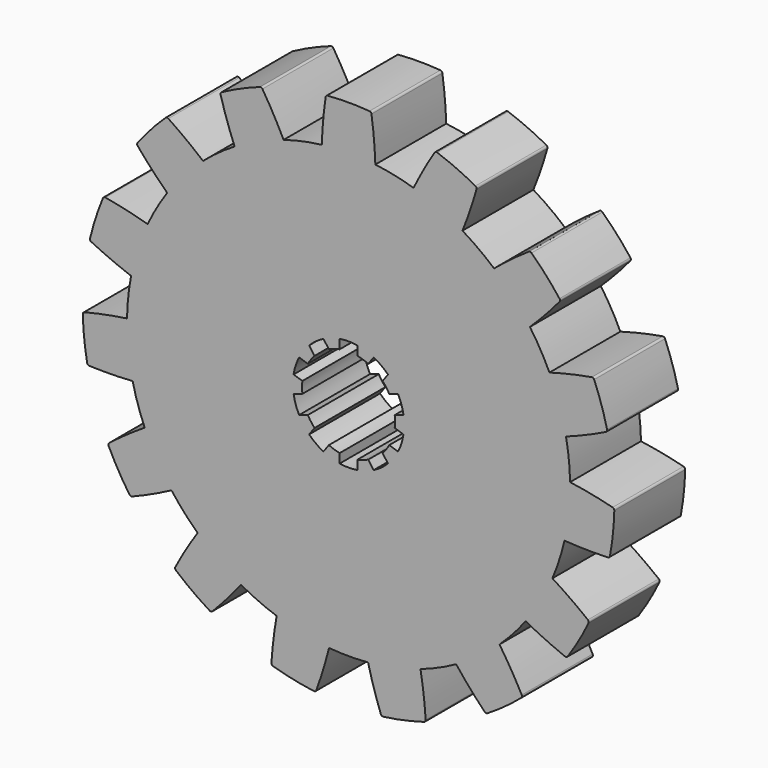
from build123d import *

# Parameters (mm, degrees)
F1_DEPTH = 20
F2_R     = 0.5


with BuildPart() as f1:
    # F0 (on Front) → F1 (new body)
    with BuildSketch(Plane.XZ):
        with BuildLine():
            ThreePointArc((-49.215093, -34.320178), (-44.527523, -32.31723), (-39.960872, -30.0521))
            ThreePointArc((-39.960872, -30.0521), (-43.30127, -25), (-46.006318, -19.581081))
            ThreePointArc((-46.006318, -19.581081), (-50.251304, -22.403351), (-54.329692, -25.461432))
            ThreePointArc((-54.329692, -25.461432), (-51.961524, -30), (-49.215093, -34.320178))
        make_face()
        with BuildLine():
            ThreePointArc((-7.426463, -59.538623), (-5.778346, -54.714846), (-4.40598, -49.805495))
            ThreePointArc((-4.40598, -49.805495), (-10.395585, -48.90738), (-16.232657, -47.291657))
            ThreePointArc((-16.232657, -47.291657), (-16.975751, -52.334764), (-17.432128, -57.411853))
            ThreePointArc((-17.432128, -57.411853), (-12.474701, -58.688856), (-7.426463, -59.538623))
        make_face()
        with BuildLine():
            ThreePointArc((-40.929834, 28.718438), (-37.157241, 33.45653), (-32.839448, 37.703722))
            ThreePointArc((-32.839448, 37.703722), (-36.83536, 40.868814), (-41.004059, 43.802593))
            ThreePointArc((-41.004059, 43.802593), (-44.58869, 40.147836), (-47.848729, 36.200817))
            ThreePointArc((-47.848729, 36.200817), (-44.495273, 32.361618), (-40.929834, 28.718438))
        make_face()
        with BuildLine():
            ThreePointArc((-49.072105, 9.587936), (-47.552826, 15.45085), (-45.335814, 21.087057))
            ThreePointArc((-45.335814, 21.087057), (-50.27362, 22.353228), (-55.275192, 23.337806))
            ThreePointArc((-55.275192, 23.337806), (-57.063391, 18.54102), (-58.436188, 13.609261))
            ThreePointArc((-58.436188, 13.609261), (-53.811111, 11.465951), (-49.072105, 9.587936))
        make_face()
        with BuildLine():
            ThreePointArc((-58.919499, -11.335461), (-53.822518, -11.412283), (-48.729363, -11.200408))
            ThreePointArc((-48.729363, -11.200408), (-49.726095, -5.226423), (-49.993206, 0.824248))
            ThreePointArc((-49.993206, 0.824248), (-55.019114, -0.027433), (-59.988741, -1.162299))
            ThreePointArc((-59.988741, -1.162299), (-59.671314, -6.271708), (-58.919499, -11.335461))
        make_face()
        with BuildLine():
            ThreePointArc((-31.000951, -51.370624), (-27.533315, -47.634234), (-24.282783, -43.70751))
            ThreePointArc((-24.282783, -43.70751), (-29.389263, -40.45085), (-34.06452, -36.600663))
            ThreePointArc((-34.06452, -36.600663), (-36.794586, -40.905526), (-39.276546, -45.358052))
            ThreePointArc((-39.276546, -45.358052), (-35.267115, -48.54102), (-31.000951, -51.370624))
        make_face()
        with BuildLine():
            ThreePointArc((48.729363, -11.200408), (49.681325, -5.636126), (50, 0))
            ThreePointArc((50, 0), (49.998301, 0.412138), (49.993206, 0.824248))
            ThreePointArc((49.993206, 0.824248), (49.726095, 5.226423), (49.072105, 9.587936))
            ThreePointArc((49.072105, 9.587936), (47.552826, 15.45085), (45.335814, 21.087057))
            ThreePointArc((45.335814, 21.087057), (43.30127, 25), (40.929834, 28.718438))
            ThreePointArc((40.929834, 28.718438), (37.157241, 33.45653), (32.839448, 37.703722))
            ThreePointArc((32.839448, 37.703722), (29.389263, 40.45085), (25.710422, 42.883262))
            ThreePointArc((25.710422, 42.883262), (20.336832, 45.677273), (14.664844, 47.801071))
            ThreePointArc((14.664844, 47.801071), (10.395585, 48.90738), (6.045446, 49.63318))
            ThreePointArc((6.045446, 49.63318), (0, 50), (-6.045446, 49.63318))
            ThreePointArc((-6.045446, 49.63318), (-10.395585, 48.90738), (-14.664844, 47.801071))
            ThreePointArc((-14.664844, 47.801071), (-20.336832, 45.677273), (-25.710422, 42.883262))
            ThreePointArc((-25.710422, 42.883262), (-29.389263, 40.45085), (-32.839448, 37.703722))
            ThreePointArc((-32.839448, 37.703722), (-37.157241, 33.45653), (-40.929834, 28.718438))
            ThreePointArc((-40.929834, 28.718438), (-43.30127, 25), (-45.335814, 21.087057))
            ThreePointArc((-45.335814, 21.087057), (-47.552826, 15.45085), (-49.072105, 9.587936))
            ThreePointArc((-49.072105, 9.587936), (-49.726095, 5.226423), (-49.993206, 0.824248))
            ThreePointArc((-49.993206, 0.824248), (-49.726095, -5.226423), (-48.729363, -11.200408))
            ThreePointArc((-48.729363, -11.200408), (-47.552826, -15.45085), (-46.006318, -19.581081))
            ThreePointArc((-46.006318, -19.581081), (-43.30127, -25), (-39.960872, -30.0521))
            ThreePointArc((-39.960872, -30.0521), (-37.157241, -33.45653), (-34.06452, -36.600663))
            ThreePointArc((-34.06452, -36.600663), (-29.389263, -40.45085), (-24.282783, -43.70751))
            ThreePointArc((-24.282783, -43.70751), (-20.336832, -45.677273), (-16.232657, -47.291657))
            ThreePointArc((-16.232657, -47.291657), (-10.395585, -48.90738), (-4.40598, -49.805495))
            ThreePointArc((-4.40598, -49.805495), (0, -50), (4.40598, -49.805495))
            ThreePointArc((4.40598, -49.805495), (10.395585, -48.90738), (16.232657, -47.291657))
            ThreePointArc((16.232657, -47.291657), (20.336832, -45.677273), (24.282783, -43.70751))
            ThreePointArc((24.282783, -43.70751), (29.389263, -40.45085), (34.06452, -36.600663))
            ThreePointArc((34.06452, -36.600663), (37.157241, -33.45653), (39.960872, -30.0521))
            ThreePointArc((39.960872, -30.0521), (43.30127, -25), (46.006318, -19.581081))
            ThreePointArc((46.006318, -19.581081), (47.552826, -15.45085), (48.729363, -11.200408))
        make_face()
        with BuildLine():
            ThreePointArc((-9.185232, 5.087387), (-8.494678, 6.171745), (-7.676786, 7.163586))
            Line((-7.676786, 7.163586), (-8.900466, 8.847837))
            ThreePointArc((-8.900466, 8.847837), (-7.376705, 10.153163), (-5.664398, 11.198978))
            Line((-5.664398, 11.198978), (-4.440718, 9.514727))
            ThreePointArc((-4.440718, 9.514727), (-3.244678, 9.986093), (-2, 10.307764))
            Line((-2, 10.307764), (-2, 12.389613))
            ThreePointArc((-2, 12.389613), (0, 12.55), (2, 12.389613))
            Line((2, 12.389613), (2, 10.307764))
            ThreePointArc((2, 10.307764), (3.244678, 9.986093), (4.440718, 9.514727))
            Line((4.440718, 9.514727), (5.664398, 11.198978))
            ThreePointArc((5.664398, 11.198978), (7.376705, 10.153163), (8.900466, 8.847837))
            Line((8.900466, 8.847837), (7.676786, 7.163586))
            ThreePointArc((7.676786, 7.163586), (8.494678, 6.171745), (9.185232, 5.087387))
            Line((9.185232, 5.087387), (11.165188, 5.730714))
            ThreePointArc((11.165188, 5.730714), (11.935759, 3.878163), (12.401256, 1.926488))
            Line((12.401256, 1.926488), (10.4213, 1.283161))
            ThreePointArc((10.4213, 1.283161), (10.5, 0), (10.4213, -1.283161))
            Line((10.4213, -1.283161), (12.401256, -1.926488))
            ThreePointArc((12.401256, -1.926488), (11.935759, -3.878163), (11.165188, -5.730714))
            Line((11.165188, -5.730714), (9.185232, -5.087387))
            ThreePointArc((9.185232, -5.087387), (8.494678, -6.171745), (7.676786, -7.163586))
            Line((7.676786, -7.163586), (8.900466, -8.847837))
            ThreePointArc((8.900466, -8.847837), (7.376705, -10.153163), (5.664398, -11.198978))
            Line((5.664398, -11.198978), (4.440718, -9.514727))
            ThreePointArc((4.440718, -9.514727), (3.244678, -9.986093), (2, -10.307764))
            Line((2, -10.307764), (2, -12.389613))
            ThreePointArc((2, -12.389613), (0, -12.55), (-2, -12.389613))
            Line((-2, -12.389613), (-2, -10.307764))
            ThreePointArc((-2, -10.307764), (-3.244678, -9.986093), (-4.440718, -9.514727))
            Line((-4.440718, -9.514727), (-5.664398, -11.198978))
            ThreePointArc((-5.664398, -11.198978), (-7.376705, -10.153163), (-8.900466, -8.847837))
            Line((-8.900466, -8.847837), (-7.676786, -7.163586))
            ThreePointArc((-7.676786, -7.163586), (-8.494678, -6.171745), (-9.185232, -5.087387))
            Line((-9.185232, -5.087387), (-11.165188, -5.730714))
            ThreePointArc((-11.165188, -5.730714), (-11.935759, -3.878163), (-12.401256, -1.926488))
            Line((-12.401256, -1.926488), (-10.4213, -1.283161))
            ThreePointArc((-10.4213, -1.283161), (-10.5, 0), (-10.4213, 1.283161))
            Line((-10.4213, 1.283161), (-12.401256, 1.926488))
            ThreePointArc((-12.401256, 1.926488), (-11.935759, 3.878163), (-11.165188, 5.730714))
            Line((-11.165188, 5.730714), (-9.185232, 5.087387))
        make_face(mode=Mode.SUBTRACT)
        with BuildLine():
            ThreePointArc((39.276546, -45.358052), (36.794586, -40.905526), (34.06452, -36.600663))
            ThreePointArc((34.06452, -36.600663), (29.389263, -40.45085), (24.282783, -43.70751))
            ThreePointArc((24.282783, -43.70751), (27.533315, -47.634234), (31.000951, -51.370624))
            ThreePointArc((31.000951, -51.370624), (35.267115, -48.54102), (39.276546, -45.358052))
        make_face()
        with BuildLine():
            ThreePointArc((-25.710422, 42.883262), (-20.336832, 45.677273), (-14.664844, 47.801071))
            ThreePointArc((-14.664844, 47.801071), (-17.027932, 52.31781), (-19.642953, 56.693513))
            ThreePointArc((-19.642953, 56.693513), (-24.404199, 54.812727), (-28.98779, 52.532923))
            ThreePointArc((-28.98779, 52.532923), (-27.485799, 47.661667), (-25.710422, 42.883262))
        make_face()
        with BuildLine():
            ThreePointArc((17.432128, -57.411853), (16.975751, -52.334764), (16.232657, -47.291657))
            ThreePointArc((16.232657, -47.291657), (10.395585, -48.90738), (4.40598, -49.805495))
            ThreePointArc((4.40598, -49.805495), (5.778346, -54.714846), (7.426463, -59.538623))
            ThreePointArc((7.426463, -59.538623), (12.474701, -58.688856), (17.432128, -57.411853))
        make_face()
        with BuildLine():
            ThreePointArc((-6.045446, 49.63318), (0, 50), (6.045446, 49.63318))
            ThreePointArc((6.045446, 49.63318), (5.723781, 54.720581), (5.114599, 59.78161))
            ThreePointArc((5.114599, 59.78161), (0, 60), (-5.114599, 59.78161))
            ThreePointArc((-5.114599, 59.78161), (-5.723781, 54.720581), (-6.045446, 49.63318))
        make_face()
        with BuildLine():
            ThreePointArc((14.664844, 47.801071), (20.336832, 45.677273), (25.710422, 42.883262))
            ThreePointArc((25.710422, 42.883262), (27.485799, 47.661667), (28.98779, 52.532923))
            ThreePointArc((28.98779, 52.532923), (24.404199, 54.812727), (19.642953, 56.693513))
            ThreePointArc((19.642953, 56.693513), (17.027932, 52.31781), (14.664844, 47.801071))
        make_face()
        with BuildLine():
            ThreePointArc((32.839448, 37.703722), (37.157241, 33.45653), (40.929834, 28.718438))
            ThreePointArc((40.929834, 28.718438), (44.495273, 32.361618), (47.848729, 36.200817))
            ThreePointArc((47.848729, 36.200817), (44.58869, 40.147836), (41.004059, 43.802593))
            ThreePointArc((41.004059, 43.802593), (36.83536, 40.868814), (32.839448, 37.703722))
        make_face()
        with BuildLine():
            ThreePointArc((45.335814, 21.087057), (47.552826, 15.45085), (49.072105, 9.587936))
            ThreePointArc((49.072105, 9.587936), (53.811111, 11.465951), (58.436188, 13.609261))
            ThreePointArc((58.436188, 13.609261), (57.063391, 18.54102), (55.275192, 23.337806))
            ThreePointArc((55.275192, 23.337806), (50.27362, 22.353228), (45.335814, 21.087057))
        make_face()
        with BuildLine():
            ThreePointArc((49.993206, 0.824248), (49.998301, 0.412138), (50, 0))
            ThreePointArc((50, 0), (49.681325, -5.636126), (48.729363, -11.200408))
            ThreePointArc((48.729363, -11.200408), (53.822518, -11.412283), (58.919499, -11.335461))
            ThreePointArc((58.919499, -11.335461), (59.671314, -6.271708), (59.988741, -1.162299))
            ThreePointArc((59.988741, -1.162299), (55.019114, -0.027433), (49.993206, 0.824248))
        make_face()
        with BuildLine():
            ThreePointArc((54.329692, -25.461432), (50.251304, -22.403351), (46.006318, -19.581081))
            ThreePointArc((46.006318, -19.581081), (43.30127, -25), (39.960872, -30.0521))
            ThreePointArc((39.960872, -30.0521), (44.527523, -32.31723), (49.215093, -34.320178))
            ThreePointArc((49.215093, -34.320178), (51.961524, -30), (54.329692, -25.461432))
        make_face()
    extrude(amount=F1_DEPTH)

    # F2
    f2_edges = [f1.edges().sort_by_distance(p)[0] for p in [
        (-5.114599, -10, 59.78161),
        (5.114599, -10, 59.78161),
        (19.642953, -10, 56.693513),
        (28.98779, -10, 52.532923),
        (41.004059, -10, 43.802593),
        (47.848729, -10, 36.200817),
        (55.275192, -10, 23.337806),
        (58.436188, -10, 13.609261),
        (59.988741, -10, -1.162299),
        (58.919499, -10, -11.335461),
        (54.329692, -10, -25.461432),
        (49.215093, -10, -34.320178),
        (39.276546, -10, -45.358052),
        (31.000951, -10, -51.370624),
        (17.432128, -10, -57.411853),
        (7.426463, -10, -59.538623),
        (-7.426463, -10, -59.538623),
        (-17.432128, -10, -57.411853),
        (-31.000951, -10, -51.370624),
        (-39.276546, -10, -45.358052),
        (-49.215093, -10, -34.320178),
        (-58.919499, -10, -11.335461),
        (-54.329692, -10, -25.461432),
        (-59.988741, -10, -1.162299),
        (-58.436188, -10, 13.609261),
        (-55.275192, -10, 23.337806),
        (-47.848729, -10, 36.200817),
        (-41.004059, -10, 43.802593),
        (-28.98779, -10, 52.532923),
        (-19.642953, -10, 56.693513),
    ]]
    fillet(f2_edges, radius=F2_R)


solid = f1.part
